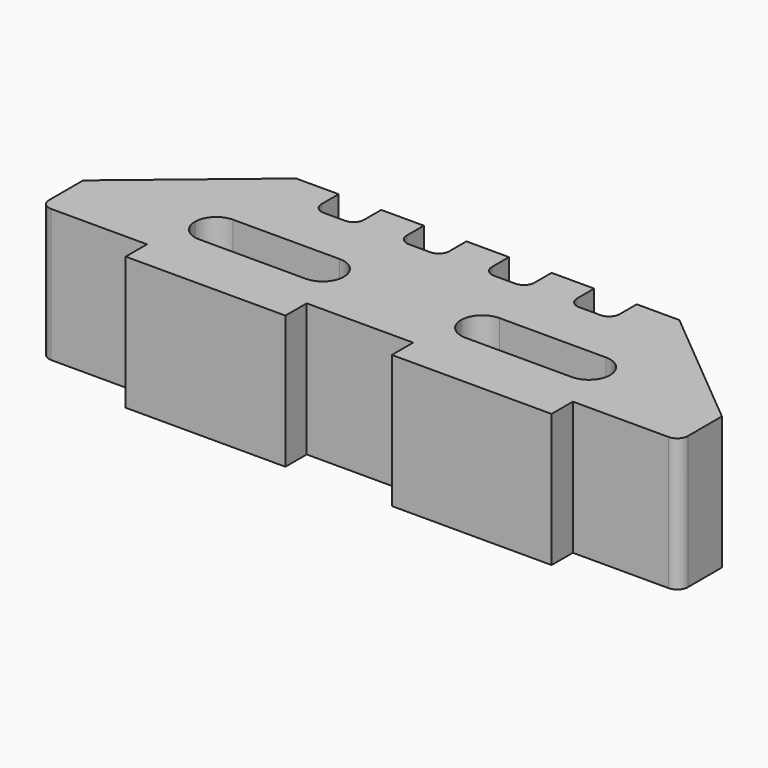
from build123d import *

# Parameters (mm, degrees)
F1_DEPTH = 25


with BuildPart() as f1:
    # F0 (on Top) → F1 (new body)
    with BuildSketch(Plane.XY):
        with BuildLine():
            ThreePointArc((0, 2), (0.585786, 0.585786), (2, 0))
            Line((2, 0), (20, 0))
            Line((20, 0), (20, -5))
            Line((20, -5), (50, -5))
            Line((50, -5), (50, 0))
            Line((50, 0), (70, 0))
            Line((70, 0), (70, -5))
            Line((70, -5), (100, -5))
            Line((100, -5), (100, 0))
            Line((100, 0), (118, 0))
            ThreePointArc((118, 0), (119.414214, 0.585786), (120, 2))
            Line((120, 2), (120, 10))
            Line((120, 10), (96, 30))
            Line((96, 30), (88, 30))
            Line((88, 30), (88, 26))
            ThreePointArc((88, 26), (87.414214, 24.585786), (86, 24))
            Line((86, 24), (82, 24))
            ThreePointArc((82, 24), (80.585786, 24.585786), (80, 26))
            Line((80, 26), (80, 30))
            Line((80, 30), (72, 30))
            Line((72, 30), (72, 26))
            ThreePointArc((72, 26), (71.414214, 24.585786), (70, 24))
            Line((70, 24), (66, 24))
            ThreePointArc((66, 24), (64.585786, 24.585786), (64, 26))
            Line((64, 26), (64, 30))
            Line((64, 30), (56, 30))
            Line((56, 30), (56, 26))
            ThreePointArc((56, 26), (55.414214, 24.585786), (54, 24))
            Line((54, 24), (50, 24))
            ThreePointArc((50, 24), (48.585786, 24.585786), (48, 26))
            Line((48, 26), (48, 30))
            Line((48, 30), (40, 30))
            Line((40, 30), (40, 26))
            ThreePointArc((40, 26), (39.414214, 24.585786), (38, 24))
            Line((38, 24), (34, 24))
            ThreePointArc((34, 24), (32.585786, 24.585786), (32, 26))
            Line((32, 26), (32, 30))
            Line((32, 30), (24, 30))
            Line((24, 30), (0, 10))
            Line((0, 10), (0, 2))
        make_face()
        with BuildLine():
            ThreePointArc((21, 10), (22.171573, 12.828427), (25, 14))
            Line((25, 14), (45, 14))
            ThreePointArc((45, 14), (47.828427, 12.828427), (49, 10))
            ThreePointArc((49, 10), (47.828427, 7.171573), (45, 6))
            Line((45, 6), (25, 6))
            ThreePointArc((25, 6), (22.171573, 7.171573), (21, 10))
        make_face(mode=Mode.SUBTRACT)
        with BuildLine():
            Line((95, 6), (75, 6))
            ThreePointArc((75, 6), (72.171573, 7.171573), (71, 10))
            ThreePointArc((71, 10), (72.171573, 12.828427), (75, 14))
            Line((75, 14), (95, 14))
            ThreePointArc((95, 14), (97.828427, 12.828427), (99, 10))
            ThreePointArc((99, 10), (97.828427, 7.171573), (95, 6))
        make_face(mode=Mode.SUBTRACT)
    extrude(amount=F1_DEPTH)


solid = f1.part
